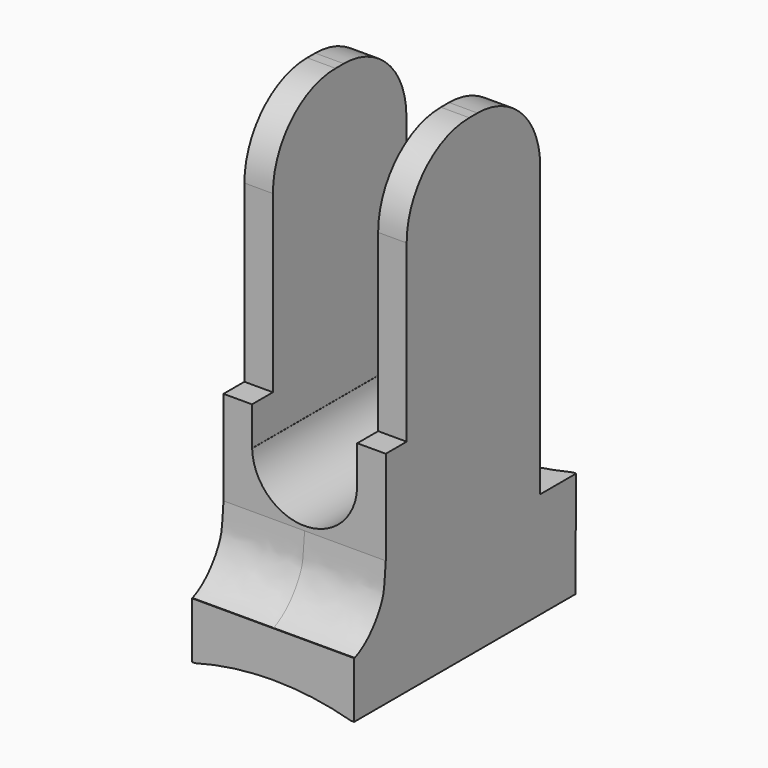
from build123d import *

# Parameters (mm, degrees)
F0_W           = 8.89
F0_H           = 15.24
F1_DEPTH       = 22.86
F3_DEPTH       = 25.4
F3_DEPTH_BACK  = 25.4
F4_R           = 4.2926
F6_DEPTH       = 25.4
F6_DEPTH_BACK  = 25.4
F7_R           = 4.2924717139
F9_DEPTH       = 25.4
F9_DEPTH_BACK  = 25.4
F10_R          = 9.8901735715
F11_DEPTH      = 48.514
F12_R          = 2.8768000524
F13_DEPTH      = 25.4
F13_DEPTH_BACK = 25.4
F15_DEPTH      = 25.4
F15_DEPTH_BACK = 25.4
F16_W          = 8.89
F16_H          = 15.1638
F17_DEPTH      = 3.0734
F18_R          = 16.0782
F19_DEPTH      = 25.4
F19_DEPTH_BACK = 25.4


with BuildPart() as f1:
    # F0 (on Top) → F1 (new body)
    with BuildSketch(Plane.XY):
        Rectangle(F0_W, F0_H)
    extrude(amount=F1_DEPTH)

    # F2 (on Right) → F3 (cut, two sides)
    with BuildSketch(Plane.YZ) as f3_sk:
        Polygon((7.8410664573, 2.7272452135), (7.8410664573, 0), (12.4911786988, 0), (12.4911786988, 24.5470050722), (5.1583079621, 24.5470050722), (5.1583079621, 2.7272452135), align=None)
    extrude(amount=-F3_DEPTH, mode=Mode.SUBTRACT)
    extrude(f3_sk.sketch, amount=F3_DEPTH_BACK, mode=Mode.SUBTRACT)

    # F4
    f4_edges = [f1.edges().sort_by_distance(p)[0] for p in [
        (0, 5.158308, 22.86),
    ]]
    fillet(f4_edges, radius=F4_R)

    # F5 (on Right) → F6 (cut, two sides)
    with BuildSketch(Plane.YZ) as f6_sk:
        Polygon((-11.5864574909, 8.9812148362), (-9.2614004388, 8.9812148362), (-3.9853109047, 8.9812148362), (-3.9853109047, 24.7200578451), (-11.5864574909, 24.7200578451), align=None)
    extrude(amount=-F6_DEPTH, mode=Mode.SUBTRACT)
    extrude(f6_sk.sketch, amount=F6_DEPTH_BACK, mode=Mode.SUBTRACT)

    # F7
    f7_edges = [f1.edges().sort_by_distance(p)[0] for p in [
        (0, -3.985311, 22.86),
    ]]
    fillet(f7_edges, radius=F7_R)

    # F8 (on Right) → F9 (cut, two sides)
    with BuildSketch(Plane.YZ) as f9_sk:
        with BuildLine():
            Line((-5.4170731455, 3.8172584027), (-5.4170731455, 10.038449429))
            Line((-5.4170731455, 10.038449429), (-13.4461307898, 9.9321035668))
            Line((-13.4461307898, 9.9321035668), (-13.4461307898, 0.467386446))
            add(Edge.make_bspline(
                [(-5.4170731455, 3.8172584027), (-5.523418542, 2.6474618353), (-5.4771876546, 2.0387220808), (-7.508362437, -0.9482839925), (-11.1789391189, -0.0271654713), (-13.4461307898, 0.467386446)],
                knots=[0, 0, 0, 0, 0.2588835968, 0.5538040318, 1, 1, 1, 1], degree=3))
        make_face()
    extrude(amount=-F9_DEPTH, mode=Mode.SUBTRACT)
    extrude(f9_sk.sketch, amount=F9_DEPTH_BACK, mode=Mode.SUBTRACT)

    # F10 (on Top) → F11 (cut)
    with BuildSketch(Plane.XY):
        with Locations((0, 16.5352746844)):
            Circle(F10_R)
    extrude(amount=F11_DEPTH, mode=Mode.SUBTRACT)

    # F12 (on Front) → F13 (cut, two sides)
    with BuildSketch(Plane.XZ) as f13_sk:
        with Locations((0, 6.9304113276)):
            Circle(F12_R)
    extrude(amount=-F13_DEPTH, mode=Mode.SUBTRACT)
    extrude(f13_sk.sketch, amount=F13_DEPTH_BACK, mode=Mode.SUBTRACT)

    # F14 (on Front) → F15 (cut, two sides)
    with BuildSketch(Plane.XZ) as f15_sk:
        Polygon((-2.8829, 6.8600848975), (0, 6.8600848975), (0, 23.8157852443), (-2.8829, 24.1923942218), align=None)
        Polygon((0, 6.8600848975), (2.8829, 6.8600848975), (2.8829, 24.0822033214), (-1.0464692745, 24.0822033214), (0, 23.8157852443), align=None)
    extrude(amount=-F15_DEPTH, mode=Mode.SUBTRACT)
    extrude(f15_sk.sketch, amount=F15_DEPTH_BACK, mode=Mode.SUBTRACT)

    # F16 (on Top) → F17 (join)
    with BuildSketch(Plane.XY):
        Rectangle(F16_W, F16_H)
    extrude(amount=-F17_DEPTH)

    # F18 (on Front) → F19 (cut, two sides)
    with BuildSketch(Plane.XZ) as f19_sk:
        with Locations((0, -18.5737498105)):
            Circle(F18_R)
    extrude(amount=-F19_DEPTH, mode=Mode.SUBTRACT)
    extrude(f19_sk.sketch, amount=F19_DEPTH_BACK, mode=Mode.SUBTRACT)


solid = f1.part
